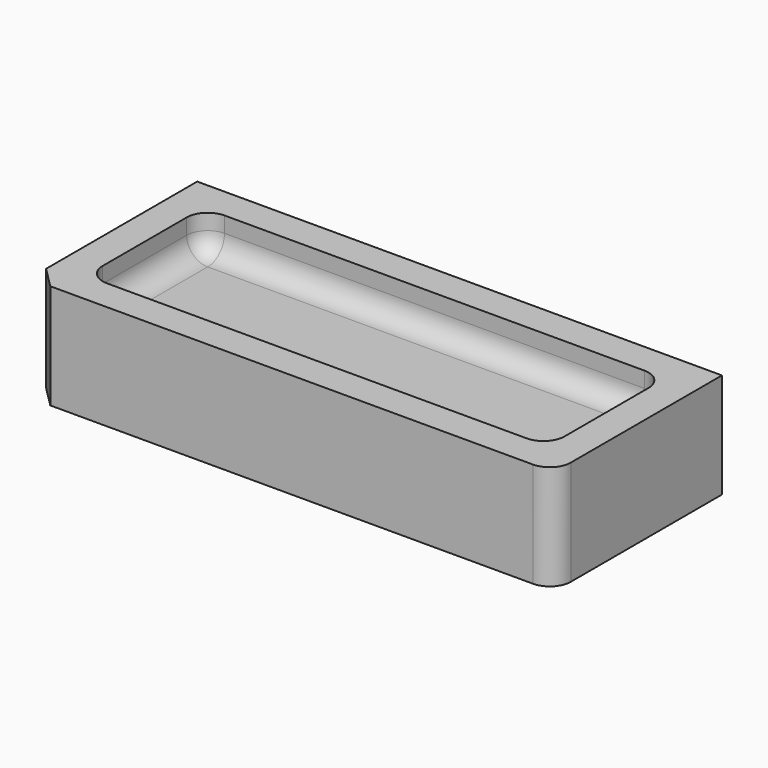
from build123d import *

# Parameters (mm, degrees)
F0_W     = 127
F0_H     = 50.8
F1_DEPTH = 25.4
F2_SIZE  = 5.08
F3_R     = 5.08
F4_W     = 111.76
F4_H     = 35.56
F5_DEPTH = 8.89
F6_R     = 5.08


with BuildPart() as f1:
    # F0 (on Top) → F1 (new body)
    with BuildSketch(Plane.XY):
        Rectangle(F0_W, F0_H)
    extrude(amount=F1_DEPTH)

    # F2
    f2_edges = [f1.edges().sort_by_distance(p)[0] for p in [
        (-63.5, -25.4, 12.7),
    ]]
    chamfer(f2_edges, length=F2_SIZE)

    # F3
    f3_edges = [f1.edges().sort_by_distance(p)[0] for p in [
        (63.5, -25.4, 12.7),
    ]]
    fillet(f3_edges, radius=F3_R)

    # F4 (on face) → F5 (cut)
    with BuildSketch(Plane.XY.offset(25.4)):
        Rectangle(F4_W, F4_H)
    extrude(amount=-F5_DEPTH, mode=Mode.SUBTRACT)

    # F6
    f6_edges = [f1.edges().sort_by_distance(p)[0] for p in [
        (0, 17.78, 16.51),
        (-55.88, 0, 16.51),
        (0, -17.78, 16.51),
        (55.88, 0, 16.51),
        (-55.88, 17.78, 20.955),
        (-55.88, -17.78, 20.955),
        (55.88, -17.78, 20.955),
        (55.88, 17.78, 20.955),
    ]]
    fillet(f6_edges, radius=F6_R)


solid = f1.part
